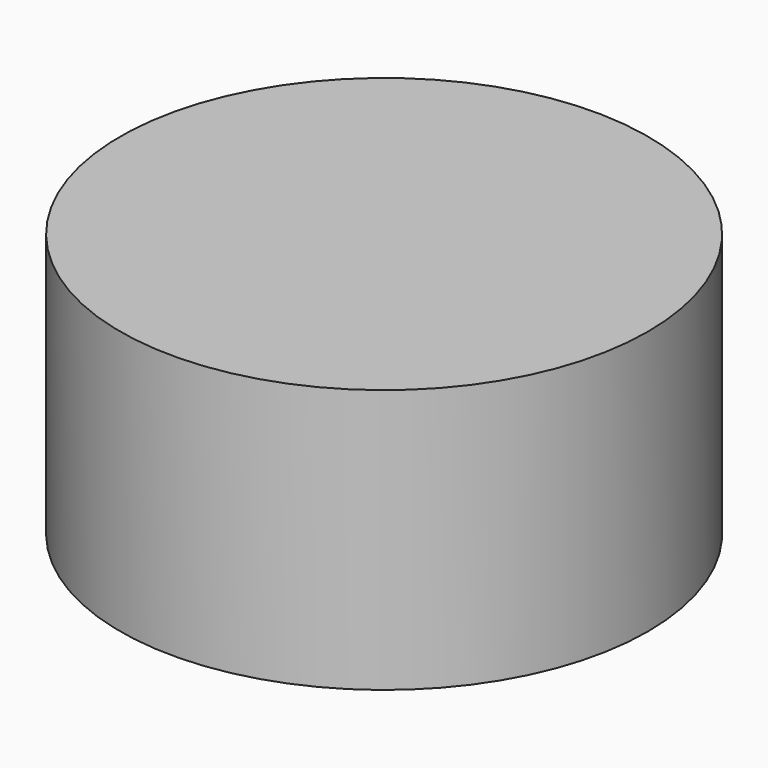
from build123d import *

# Parameters (mm, degrees)
F0_R     = 6.35
F1_DEPTH = 6.35
F2_R     = 2.54


with BuildPart() as f1:
    # F0 (on Top) → F1 (new body)
    with BuildSketch(Plane.XY):
        Circle(F0_R)
    extrude(amount=F1_DEPTH)

    # F2 (on Top) → F5 section 0
    with BuildSketch(Plane.XY, mode=Mode.PRIVATE) as f5_s0:
        Circle(F2_R)
    loft([Vertex(0, 0, 2.54), f5_s0.sketch], mode=Mode.SUBTRACT)


solid = f1.part
